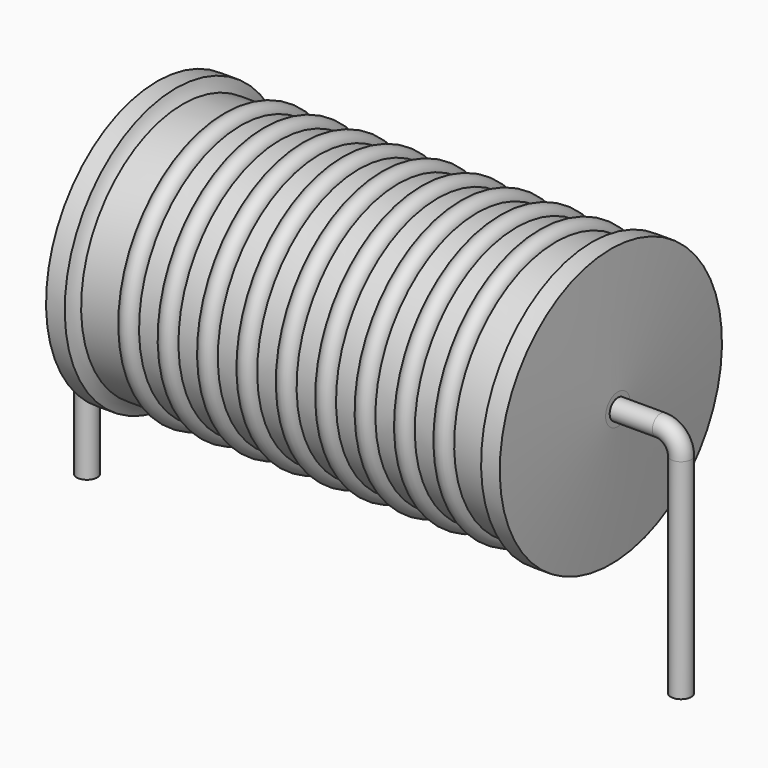
from build123d import *

# Parameters (mm, degrees)
SKETCH_R = 0.35


with BuildPart() as sweep_body:
    # Sweep: sweep along a path in Sketch001
    with BuildLine(Plane.XZ) as sweep_path:
        Line((0, -3), (0, 4.15))
        ThreePointArc((0, 4.15), (0.205023, 4.644972), (0.699992, 4.85))
        Line((0.699992, 4.85), (19.62, 4.85))
        ThreePointArc((19.62, 4.85), (20.114975, 4.644975), (20.32, 4.15))
        Line((20.32, 4.15), (20.32, -3))
    # Sketch → Sweep (sweep)
    with BuildSketch(Plane.XY.offset(-2)):
        Circle(SKETCH_R)
    sweep(path=sweep_path.line)


with BuildPart() as revolution:
    # Sketch002 → Revolution (revolve)
    with BuildSketch(Plane.XZ):
        with BuildLine():
            Line((2.4, 9.6), (3.04, 9.6))
            ThreePointArc((3.04, 9.6), (3.138512, 9.387107), (3.28, 9.2))
            Line((3.28, 9.2), (17.04, 9.2))
            ThreePointArc((17.04, 9.2), (17.181488, 9.387107), (17.28, 9.6))
            Line((17.28, 9.6), (17.92, 9.6))
            ThreePointArc((18.16, 5.375), (18.049811, 7.488057), (17.92, 9.6))
            Line((18.16, 4.85), (18.16, 5.375))
            Line((2.16, 4.85), (18.16, 4.85))
            Line((2.16, 4.85), (2.16, 5.375))
            ThreePointArc((2.4, 9.6), (2.270189, 7.488057), (2.16, 5.375))
        make_face()
    revolve(axis=Axis((2.16, 0, 4.85), (1, 0, 0)))


with BuildPart() as obj1:
    # Sketch003 → Revolution001 (revolve)
    with BuildSketch(Plane.XZ):
        with BuildLine():
            ThreePointArc((5.267368, 9.136), (4.930526, 9.472842), (4.593684, 9.136))
            Line((3.92, 9.136), (4.593684, 9.136))
            Line((3.92, 9.136), (3.92, 8.186))
            Line((3.92, 8.186), (16.72, 8.186))
            Line((16.72, 8.186), (16.72, 9.136))
            Line((16.046316, 9.136), (16.72, 9.136))
            ThreePointArc((16.046316, 9.136), (15.709474, 9.472842), (15.372632, 9.136))
            Line((14.698947, 9.136), (15.372632, 9.136))
            ThreePointArc((14.698947, 9.136), (14.362105, 9.472842), (14.025263, 9.136))
            Line((13.351579, 9.136), (14.025263, 9.136))
            ThreePointArc((13.351579, 9.136), (13.014737, 9.472842), (12.677895, 9.136))
            Line((12.004211, 9.136), (12.677895, 9.136))
            ThreePointArc((12.004211, 9.136), (11.667368, 9.472842), (11.330526, 9.136))
            Line((10.656842, 9.136), (11.330526, 9.136))
            ThreePointArc((10.656842, 9.136), (10.32, 9.472842), (9.983158, 9.136))
            Line((9.309474, 9.136), (9.983158, 9.136))
            ThreePointArc((9.309474, 9.136), (8.972632, 9.472842), (8.635789, 9.136))
            Line((7.962105, 9.136), (8.635789, 9.136))
            ThreePointArc((7.962105, 9.136), (7.625263, 9.472842), (7.288421, 9.136))
            Line((6.614737, 9.136), (7.288421, 9.136))
            ThreePointArc((6.614737, 9.136), (6.277895, 9.472842), (5.941053, 9.136))
            Line((5.267368, 9.136), (5.941053, 9.136))
        make_face()
    revolve(axis=Axis((2.56, 0, 4.85), (1, 0, 0)))

    # obj1: union Sweep body, Revolution
    add(sweep_body.part)
    add(revolution.part)


solid = obj1.part
